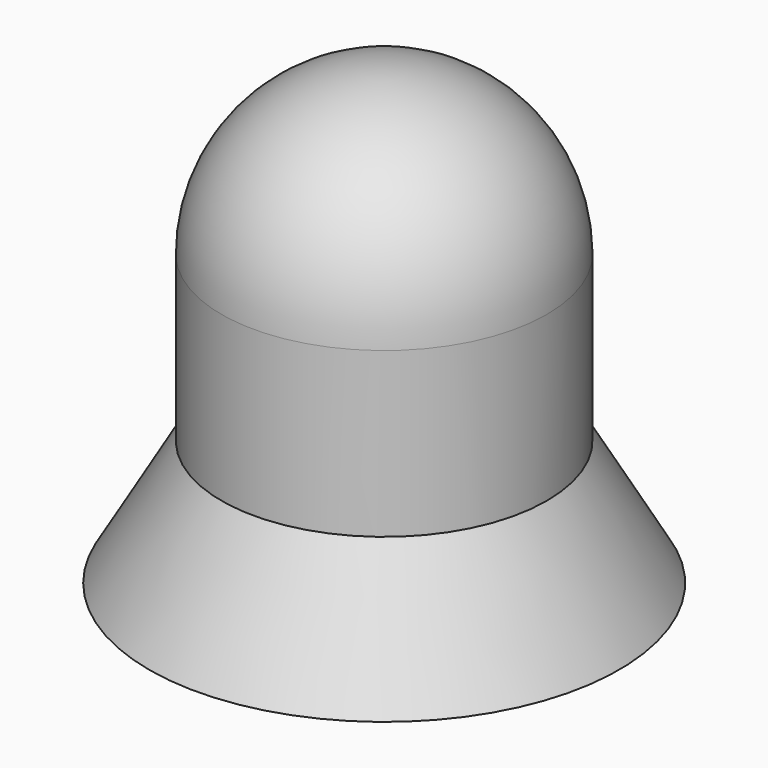
from build123d import *

# Parameters (mm, degrees)
F3_D     = 1
F3_DEPTH = 1.8
F3_TIP   = 0.3004303095


with BuildPart() as f1:
    # F0 (on Front) → F1 (revolve)
    with BuildSketch(Plane.XZ):
        with BuildLine():
            Line((-1.3, 0), (0, 0))
            Line((0, 0), (0, 2.5))
            ThreePointArc((0, 2.5), (-0.6363961031, 2.2363961031), (-0.9, 1.6))
            Line((-0.9, 1.6), (-0.9, 0.692820323))
            Line((-0.9, 0.692820323), (-1.3, 0))
        make_face()
    revolve(axis=Axis((0, 0, 1.25), (0, 0, -1)))

    # F3
    with Locations(Plane(origin=(0, 0, 0), x_dir=(1, 0, 0), z_dir=(0, 0, -1))):
        with Locations((0, 0)):
            Hole(F3_D / 2, depth=F3_DEPTH)
            with Locations((0, 0, -(F3_DEPTH + F3_TIP / 2))):  # 118° drill point
                Cone(0, F3_D / 2, F3_TIP, mode=Mode.SUBTRACT)


solid = f1.part
